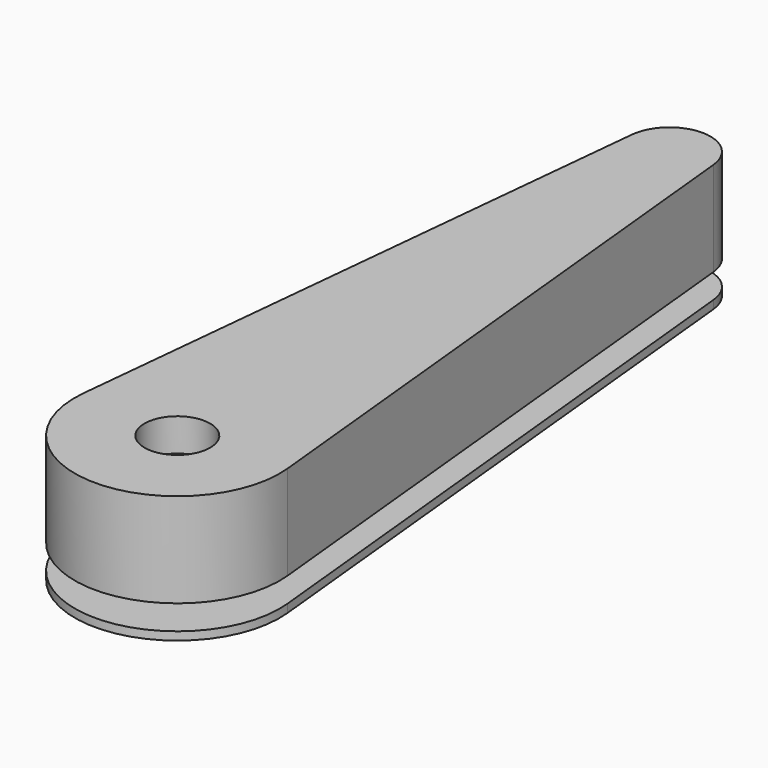
from build123d import *

# Parameters (mm, degrees)
F0_R     = 1.27
F1_DEPTH = 5.842
F2_R     = 2.032
F3_DEPTH = 2.032
F5_R     = 1.27
F6_DEPTH = 0.508


with BuildPart() as f1:
    # F0 (on Top) → F1 (new body)
    with BuildSketch(Plane.XY):
        with BuildLine():
            Line((-2.5272680903, 38.354), (-6.3181702256, 0.635))
            ThreePointArc((-6.3181702256, 0.635), (0, -6.35), (6.3181702256, 0.635))
            Line((6.3181702256, 0.635), (2.5272680903, 38.354))
            ThreePointArc((2.5272680903, 38.354), (0, 40.64), (-2.5272680903, 38.354))
        make_face()
        Circle(F0_R, mode=Mode.SUBTRACT)
    extrude(amount=F1_DEPTH)

    # F2 (on face) → F3 (cut)
    with BuildSketch(Plane.XY.offset(5.842)):
        Circle(F2_R)
    extrude(amount=-F3_DEPTH, mode=Mode.SUBTRACT)


with BuildPart() as f6:
    # F5 (on offset) → F6 (new body)
    with BuildSketch(Plane(origin=(0, 0, -1.524), x_dir=(1, 0, 0), z_dir=(0, 0, -1))):
        with BuildLine():
            ThreePointArc((6.3181702256, -0.635), (0, 6.35), (-6.3181702256, -0.635))
            Line((-6.3181702256, -0.635), (-2.5272680903, -38.354))
            ThreePointArc((-2.5272680903, -38.354), (0, -40.64), (2.5272680903, -38.354))
            Line((2.5272680903, -38.354), (6.3181702256, -0.635))
        make_face()
        Circle(F5_R, mode=Mode.SUBTRACT)
    extrude(amount=F6_DEPTH)


solid = Compound([f1.part, f6.part])
